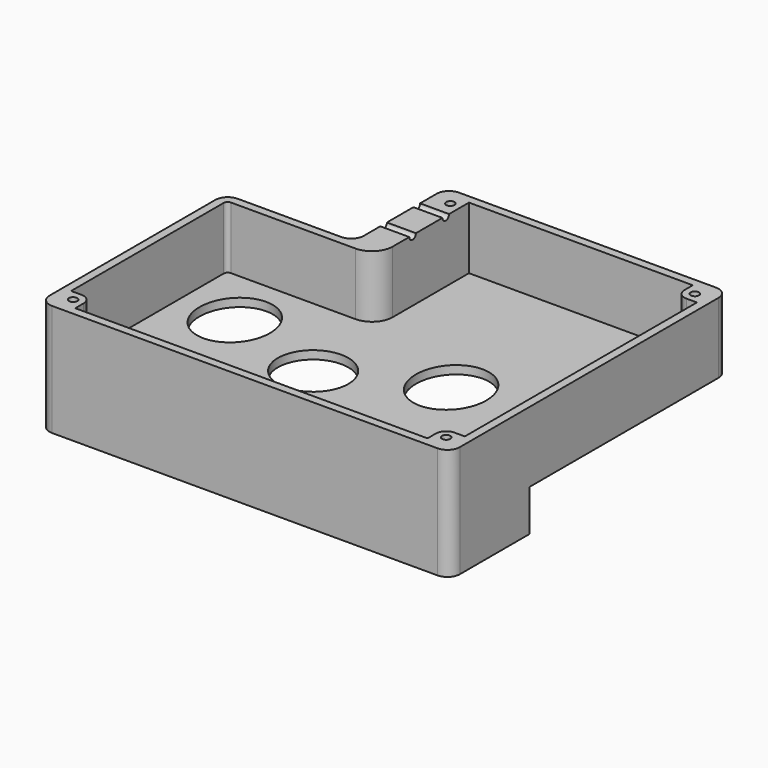
from build123d import *

# Parameters (mm, degrees)
F1_DEPTH  = 17
F3_T      = -2
F2_R      = 8.5
F4_DEPTH  = 2
F5_R      = 1
F6_DEPTH  = 15
F7_R      = 1
F8_DEPTH  = 7
F11_DEPTH = 10
F12_DEPTH = 8
F13_DEPTH = 2


with BuildPart() as f1:
    # F0 (on Top) → F1 (new body)
    with BuildSketch(Plane.XY):
        with BuildLine():
            Line((-12.5, 17.5), (-37.5, 17.5))
            ThreePointArc((-37.5, 17.5), (-39.6213203436, 16.6213203436), (-40.5, 14.5))
            Line((-40.5, 14.5), (-40.5, -17.5))
            Line((-40.5, -17.5), (-40.5, -35.5))
            ThreePointArc((-40.5, -35.5), (-39.6213203436, -37.6213203436), (-37.5, -38.5))
            Line((-37.5, -38.5), (55.5, -38.5))
            ThreePointArc((55.5, -38.5), (57.6213203436, -37.6213203436), (58.5, -35.5))
            Line((58.5, -35.5), (58.5, -17.5))
            Line((58.5, -17.5), (40.5, -17.5))
            Line((40.5, -17.5), (40.5, 17.5))
            Line((40.5, 17.5), (40.5, 42.5))
            ThreePointArc((40.5, 42.5), (39.6213203436, 44.6213203436), (37.5, 45.5))
            Line((37.5, 45.5), (-6.5, 45.5))
            ThreePointArc((-6.5, 45.5), (-8.6213203436, 44.6213203436), (-9.5, 42.5))
            Line((-9.5, 42.5), (-9.5, 20.5))
            ThreePointArc((-9.5, 20.5), (-10.3786796564, 18.3786796564), (-12.5, 17.5))
        make_face()
        with BuildLine():
            Line((55.5, 45.5), (37.5, 45.5))
            ThreePointArc((37.5, 45.5), (39.6213203436, 44.6213203436), (40.5, 42.5))
            Line((40.5, 42.5), (40.5, 17.5))
            Line((40.5, 17.5), (40.5, -17.5))
            Line((40.5, -17.5), (58.5, -17.5))
            Line((58.5, -17.5), (58.5, 42.5))
            ThreePointArc((58.5, 42.5), (57.6213203436, 44.6213203436), (55.5, 45.5))
        make_face()
    extrude(amount=F1_DEPTH)

    # F3
    f3_openings = [f1.faces().sort_by_distance(p)[0] for p in [
        (12.966173, 0.233802, 17),
    ]]
    offset(amount=F3_T, openings=f3_openings)

    # F2 (on Top) → F4 (cut, through all)
    with BuildSketch(Plane.XY):
        with BuildLine():
            add(Edge.make_bspline(
                [(-25, 10.5), (-39.7224318643, 10.5), (-32.3612159322, -3.75), (-25, -18), (-17.6387840678, -3.75), (-10.2775681357, 10.5), (-25, 10.5)],
                knots=[0, 0, 0, 2.0943951024, 2.0943951024, 4.1887902048, 4.1887902048, 6.2831853072, 6.2831853072, 6.2831853072], degree=2, weights=[1, 0.5, 1, 0.5, 1, 0.5, 1]))
        make_face()
        with BuildLine():
            add(Edge.make_bspline(
                [(24, -4.5), (38.7224318643, -4.5), (31.3612159322, 9.75), (24, 24), (16.6387840678, 9.75), (9.2775681357, -4.5), (24, -4.5)],
                knots=[0, 0, 0, 2.0943951024, 2.0943951024, 4.1887902048, 4.1887902048, 6.2831853072, 6.2831853072, 6.2831853072], degree=2, weights=[1, 0.5, 1, 0.5, 1, 0.5, 1]))
        make_face()
        with Locations((-0.5, -6)):
            Circle(F2_R)
    extrude(amount=F4_DEPTH, mode=Mode.SUBTRACT)

    # F5 (on face) → F6 (join, through all)
    with BuildSketch(Plane.XY.offset(2)):
        with BuildLine():
            ThreePointArc((51.5, 41), (52.232233047, 39.232233047), (54, 38.5))
            Line((54, 38.5), (56.5, 38.5))
            Line((56.5, 38.5), (56.5, 43.5))
            Line((56.5, 43.5), (51.5, 43.5))
            Line((51.5, 43.5), (51.5, 41))
        make_face()
        with Locations((54, 41)):
            Circle(F5_R, mode=Mode.SUBTRACT)
        with BuildLine():
            Line((-2.5, 43.5), (-7.5, 43.5))
            Line((-7.5, 43.5), (-7.5, 38.5))
            Line((-7.5, 38.5), (-7.5, 20.5))
            Line((-7.5, 20.5), (-12.5, 15.5))
            Line((-12.5, 15.5), (-7.5, 15.5))
            ThreePointArc((-7.5, 15.5), (-3.9644660941, 16.9644660941), (-2.5, 20.5))
            Line((-2.5, 20.5), (-2.5, 43.5))
        make_face()
        with Locations((-5, 41)):
            Circle(F5_R, mode=Mode.SUBTRACT)
        with BuildLine():
            Line((56.5, -31.5), (54, -31.5))
            ThreePointArc((54, -31.5), (52.232233047, -32.232233047), (51.5, -34))
            Line((51.5, -34), (51.5, -36.5))
            Line((51.5, -36.5), (56.5, -36.5))
            Line((56.5, -36.5), (56.5, -31.5))
        make_face()
        with Locations((54, -34)):
            Circle(F5_R, mode=Mode.SUBTRACT)
        with BuildLine():
            Line((-33.5, -36.5), (-33.5, -34))
            ThreePointArc((-33.5, -34), (-34.232233047, -32.232233047), (-36, -31.5))
            Line((-36, -31.5), (-38.5, -31.5))
            Line((-38.5, -31.5), (-38.5, -36.5))
            Line((-38.5, -36.5), (-33.5, -36.5))
        make_face()
        with Locations((-36, -34)):
            Circle(F5_R, mode=Mode.SUBTRACT)
    extrude(amount=F6_DEPTH)

    # F7 (on face) → F8 (cut, through all)
    with BuildSketch(Plane(origin=(-9.5, 0, 0), x_dir=(0, -1, 0), z_dir=(-1, 0, 0))):
        with Locations((-26.5, 17)):
            Circle(F7_R)
        with Locations((-36.5, 17)):
            Circle(F7_R)
    extrude(amount=-F8_DEPTH, mode=Mode.SUBTRACT)

    # F10 (on face) → F11 (join)
    with BuildSketch(Plane(origin=(0, 0, 0), x_dir=(1, 0, 0), z_dir=(0, 0, -1))):
        with BuildLine():
            Line((55.5, 38.5), (-37.5, 38.5))
            ThreePointArc((-37.5, 38.5), (-39.6213203436, 37.6213203436), (-40.5, 35.5))
            Line((-40.5, 35.5), (-40.5, 14.5))
            Line((-40.5, 14.5), (-0.5, 14.5))
            Line((-0.5, 14.5), (58.5, 14.5))
            Line((58.5, 14.5), (58.5, 35.5))
            ThreePointArc((58.5, 35.5), (57.6213203436, 37.6213203436), (55.5, 38.5))
        make_face()
    extrude(amount=F11_DEPTH)

    # F9 (on face) → F12 (cut)
    with BuildSketch(Plane(origin=(0, 0, 0), x_dir=(1, 0, 0), z_dir=(0, 0, -1))):
        with BuildLine():
            Line((56.4999997616, 16.5000002384), (56.4999997616, 35.5))
            ThreePointArc((56.4999997616, 35.5), (56.2071066126, 36.2071066126), (55.5, 36.4999997616))
            Line((55.5, 36.4999997616), (-37.5, 36.4999997616))
            ThreePointArc((-37.5, 36.4999997616), (-38.2071066126, 36.2071066126), (-38.4999997616, 35.5))
            Line((-38.4999997616, 35.5), (-38.4999997616, 16.5000002384))
            Line((-38.4999997616, 16.5000002384), (56.4999997616, 16.5000002384))
        make_face()
    extrude(amount=F12_DEPTH, mode=Mode.SUBTRACT)

    # F9 (on face) → F13 (cut)
    with BuildSketch(Plane(origin=(0, 0, 0), x_dir=(1, 0, 0), z_dir=(0, 0, -1))):
        with BuildLine():
            Line((56.4999997616, 16.5000002384), (56.4999997616, 35.5))
            ThreePointArc((56.4999997616, 35.5), (56.2071066126, 36.2071066126), (55.5, 36.4999997616))
            Line((55.5, 36.4999997616), (-37.5, 36.4999997616))
            ThreePointArc((-37.5, 36.4999997616), (-38.2071066126, 36.2071066126), (-38.4999997616, 35.5))
            Line((-38.4999997616, 35.5), (-38.4999997616, 16.5000002384))
            Line((-38.4999997616, 16.5000002384), (56.4999997616, 16.5000002384))
        make_face()
    extrude(amount=-F13_DEPTH, mode=Mode.SUBTRACT)


solid = f1.part
